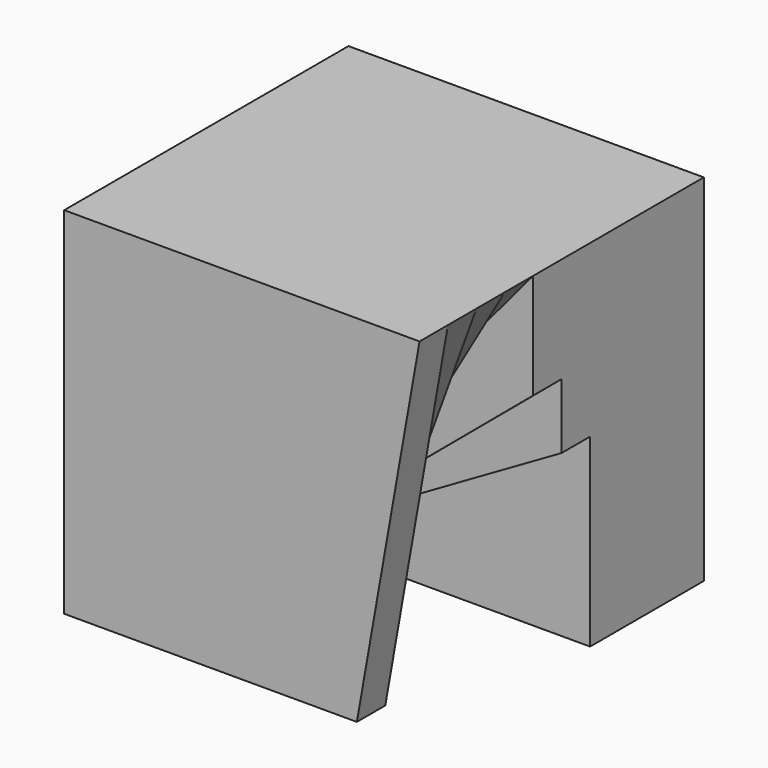
from build123d import *

# Parameters (mm, degrees)
F0_W      = 50.8
F0_H      = 50.8
F1_DEPTH  = 50.8
F3_DEPTH  = 5.08
F5_DEPTH  = 5.08
F7_DEPTH  = 5.08
F9_DEPTH  = 5.08
F11_DEPTH = 5.08
F13_DEPTH = 5.08


with BuildPart() as f1:
    # F0 (on Front) → F1 (new body)
    with BuildSketch(Plane.XZ):
        Rectangle(F0_W, F0_H)
    extrude(amount=F1_DEPTH)

    # F2 (on face) → F3 (cut)
    with BuildSketch(Plane.XZ.offset(50.8)):
        Polygon((31.007338, 25.4), (25.4, 25.4), (16.442589, -25.4), (31.007338, -25.4), align=None)
    extrude(amount=-F3_DEPTH, mode=Mode.SUBTRACT)

    # F4 (on face) → F5 (cut)
    with BuildSketch(Plane.XZ.offset(45.72)):
        Polygon((32.858667, 25.4), (25.4, 25.4), (6.626374, -26.180113), (32.858667, -26.180113), align=None)
    extrude(amount=-F5_DEPTH, mode=Mode.SUBTRACT)

    # F6 (on face) → F7 (cut)
    with BuildSketch(Plane.XZ.offset(40.64)):
        Polygon((35.186552, 25.4), (25.4, 25.4), (-7.151678, -30.981159), (35.186552, -30.981159), align=None)
    extrude(amount=-F7_DEPTH, mode=Mode.SUBTRACT)

    # F8 (on face) → F9 (cut)
    with BuildSketch(Plane.XZ.offset(35.56)):
        Polygon((63.193578, 25.4), (25.4, 25.4), (-24.735296, -34.348919), (63.193578, -34.348919), align=None)
    extrude(amount=-F9_DEPTH, mode=Mode.SUBTRACT)

    # F10 (on face) → F11 (cut)
    with BuildSketch(Plane.XZ.offset(30.48)):
        Polygon((66.855003, 25.4), (43.346025, 25.4), (-33.323239, -38.933151), (66.855003, -38.933151), align=None)
    extrude(amount=-F11_DEPTH, mode=Mode.SUBTRACT)

    # F12 (on face) → F13 (cut)
    with BuildSketch(Plane.XZ.offset(25.4)):
        Polygon((62.784301, 12.176968), (44.699044, 12.176968), (-34.901336, -33.780333), (62.784301, -33.780333), align=None)
    extrude(amount=-F13_DEPTH, mode=Mode.SUBTRACT)


solid = f1.part
